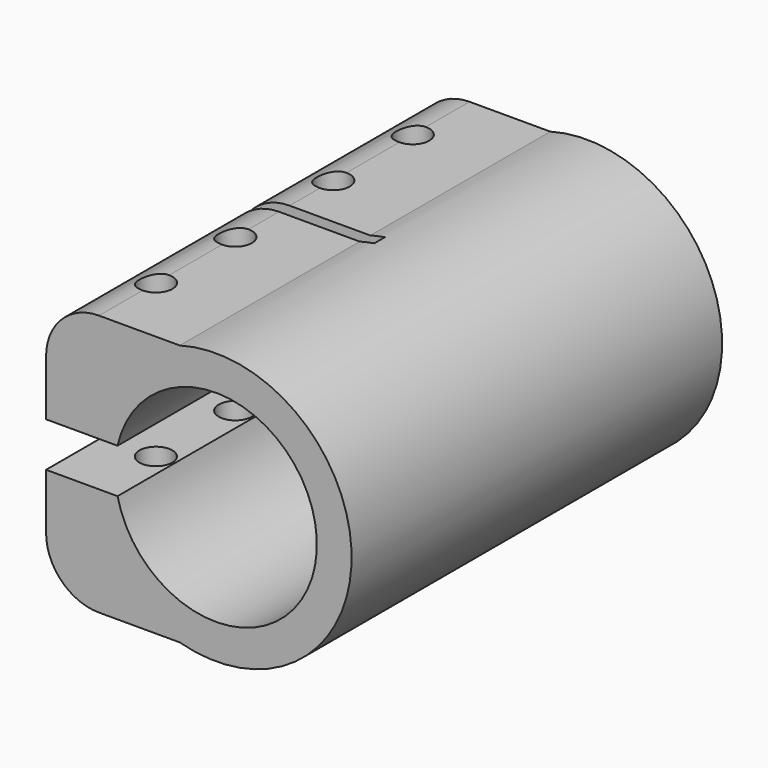
from build123d import *

# Parameters (mm, degrees)
F1_DEPTH       = 35
F3_D           = 5
F3_START       = 1.7550021
F3_CBORE_D     = 10
F3_CBORE_DEPTH = 8
F4_W           = 22.4
F4_H           = 2
F5_DEPTH       = 25


with BuildPart() as f1:
    # F0 (on Front) → F1 (new body, symmetric)
    with BuildSketch(Plane.XZ):
        with BuildLine():
            ThreePointArc((-14.8763772272, 3.3549814595), (15.25, 0), (-14.8763772272, -3.3549814595))
            Line((-14.8763772272, -3.3549814595), (-25.6763772272, -3.3549814595))
            Line((-25.6763772272, -3.3549814595), (-25.6763772272, -11.7549814595))
            ThreePointArc((-25.6763772272, -11.7549814595), (-23.3332314767, -17.411835709), (-17.6763772272, -19.7549814595))
            Line((-17.6763772272, -19.7549814595), (-5.4763772272, -19.7549814595))
            ThreePointArc((-5.4763772272, -19.7549814595), (20.5, 0), (-5.4763772272, 19.7549814595))
            Line((-5.4763772272, 19.7549814595), (-17.6763772272, 19.7549814595))
            ThreePointArc((-17.6763772272, 19.7549814595), (-23.3332314767, 17.411835709), (-25.6763772272, 11.7549814595))
            Line((-25.6763772272, 11.7549814595), (-25.6763772272, 3.3549814595))
            Line((-25.6763772272, 3.3549814595), (-14.8763772272, 3.3549814595))
        make_face()
    extrude(amount=F1_DEPTH, both=True)

    # F3 (through all)
    # its depths count from where the whole tool has entered the part; down to there all is cleared
    with Locations(Plane(origin=(0, 0, -19.7549814595), x_dir=(1, 0, 0), z_dir=(0, 0, -1)).offset(-F3_START)):
        with Locations((-17.6763772272, 24.25), (-17.6763772272, 9.25), (-17.6763772272, -9.25), (-17.6763772272, -24.25)):
            CounterBoreHole(F3_D / 2, F3_CBORE_D / 2, F3_CBORE_DEPTH)

    # F4 (on Top) → F5 (cut, symmetric)
    with BuildSketch(Plane.XY):
        with Locations((-14.4763772272, 0)):
            Rectangle(F4_W, F4_H)
    extrude(amount=F5_DEPTH, both=True, mode=Mode.SUBTRACT)


solid = f1.part
